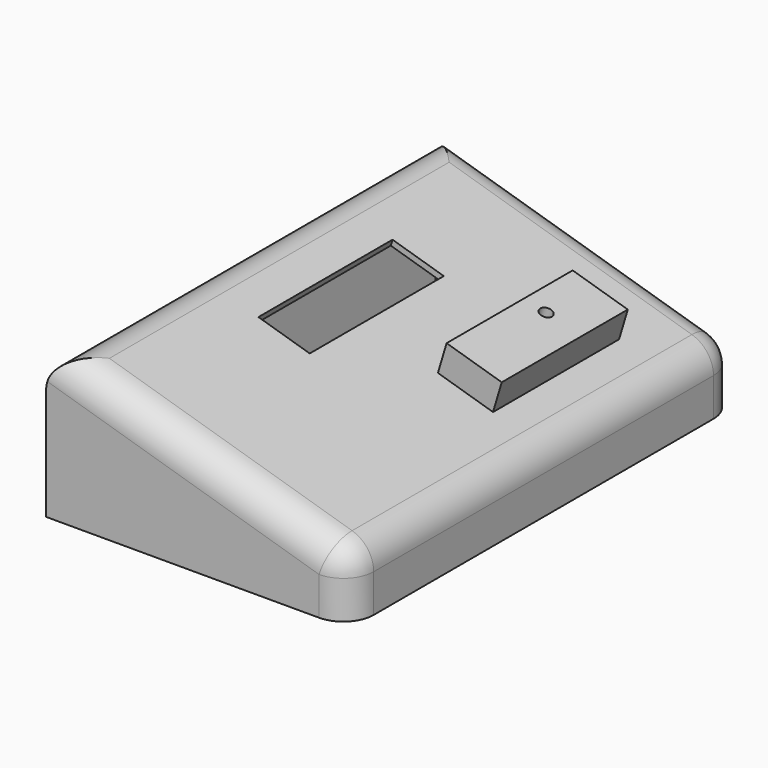
from build123d import *

# Parameters (mm, degrees)
F1_DEPTH = 203.2
F2_R     = 12.7
F3_T     = -2.54
F4_W     = 22.4106954411
F4_H     = 70.1701231301
F5_DEPTH = 25.4
F6_W     = 24.0932293236
F6_H     = 65.9613286316
F7_DEPTH = 12.7
F9_D     = 5.1054


with BuildPart() as f1:
    # F0 (on Front) → F1 (new body)
    with BuildSketch(Plane.XZ):
        Polygon((-1.2532134056, 88.9871907368), (-1.2532134056, 25.4871907368), (125.7467865944, 25.4871907368), (125.7467865944, 50.8871907368), align=None)
    extrude(amount=F1_DEPTH)

    # F2
    f2_edges = [f1.edges().sort_by_distance(p)[0] for p in [
        (-1.253213, -101.6, 88.987191),
        (62.246787, 0, 69.937191),
        (125.746787, -101.6, 50.887191),
        (62.246787, -203.2, 69.937191),
        (125.746787, -203.2, 38.187191),
        (125.746787, 0, 38.187191),
    ]]
    fillet(f2_edges, radius=F2_R)

    # F3
    f3_openings = [f1.faces().sort_by_distance(p)[0] for p in [
        (62.083618, -101.6, 25.487191),
    ]]
    offset(amount=F3_T, openings=f3_openings)

    # F4 (on face) → F5 (cut)
    with BuildSketch(Plane(origin=(24.3884110225, 0, 81.2947034084), x_dir=(0.9578262852, 0, -0.2873478856), z_dir=(0.2873478856, 0, 0.9578262852))):
        with Locations((16.6988200508, -95.6082399935)):
            Rectangle(F4_W, F4_H)
    extrude(amount=-F5_DEPTH, mode=Mode.SUBTRACT)

    # F6 (on face) → F7 (join)
    with BuildSketch(Plane(origin=(24.3884110225, 0, 81.2947034084), x_dir=(0.9578262852, 0, -0.2873478856), z_dir=(0.2873478856, 0, 0.9578262852))):
        with Locations((71.6791953892, -68.6193356842)):
            Rectangle(F6_W, F6_H)
    extrude(amount=F7_DEPTH)

    # F9 (through all)
    with Locations(Plane(origin=(28.0377291692, 0, 93.4590972307), x_dir=(0.9578262852, 0, -0.2873478856), z_dir=(0.2873478856, 0, 0.9578262852))):
        with Locations((68.7415376306, -60.4210160673)):
            Hole(F9_D / 2)


solid = f1.part
